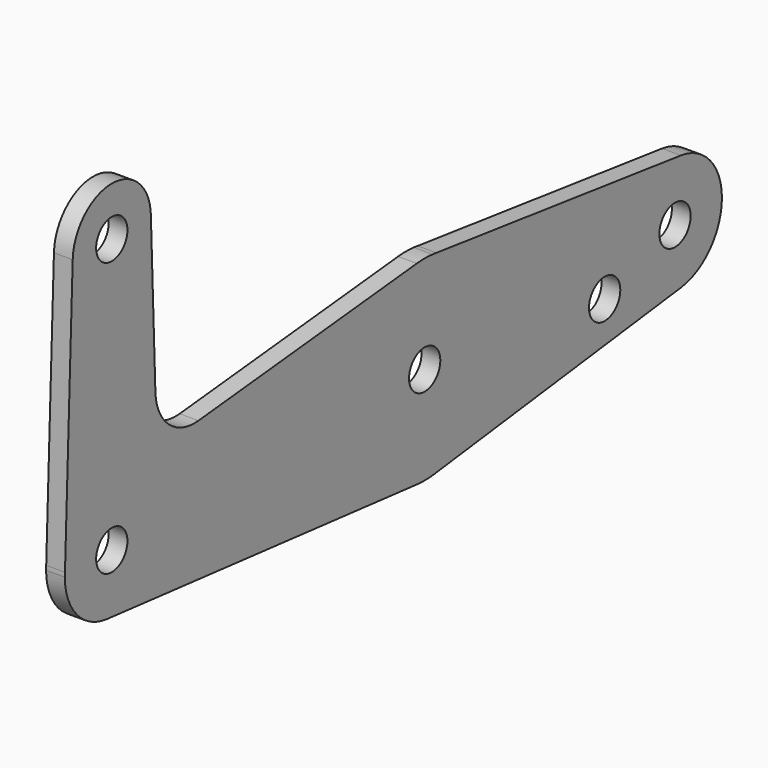
from build123d import *

# Parameters (mm, degrees)
F0_R     = 3.175
F1_DEPTH = 3.048


with BuildPart() as f1:
    # F0 (on Right) → F1 (new body)
    with BuildSketch(Plane.YZ):
        with BuildLine():
            ThreePointArc((-0.9525, -9.477255), (6.389564, -7.063929), (9.525, 0))
            ThreePointArc((9.525, 0), (0.338886, 9.51897), (-9.500886, 0.677344))
            Line((-9.500886, 0.677344), (-9.525, 0))
            ThreePointArc((-9.525, 0), (-7.063929, -6.389564), (-0.9525, -9.477255))
        make_face()
        Circle(F0_R, mode=Mode.SUBTRACT)
        with BuildLine():
            ThreePointArc((-9.500886, 0.677344), (0.338886, 9.51897), (9.525, 0))
            ThreePointArc((9.525, 0), (6.389564, -7.063929), (-0.9525, -9.477255))
            Line((-0.9525, -9.477255), (61.9125, -15.795426))
            ThreePointArc((61.9125, -15.795426), (47.625, 0), (61.9125, 15.795426))
            Line((61.9125, 15.795426), (17.59125, 11.340972))
            ThreePointArc((17.59125, 11.340972), (11.569571, 13.260686), (8.851134, 18.966474))
            Line((8.851134, 18.966474), (7.9375, 44.45))
            ThreePointArc((7.9375, 44.45), (-0.141225, 36.513756), (-7.932475, 44.732405))
            Line((-7.932475, 44.732405), (-9.500886, 0.677344))
        make_face()
        with BuildLine():
            Line((-9.525, 0), (-9.500886, 0.677344))
            ThreePointArc((-9.500886, 0.677344), (-9.51897, 0.338886), (-9.525, 0))
        make_face()
        with BuildLine():
            ThreePointArc((7.9375, 44.45), (0.141225, 52.386244), (-7.932475, 44.732405))
            ThreePointArc((-7.932475, 44.732405), (-0.141225, 36.513756), (7.9375, 44.45))
        make_face()
        with Locations((0, 44.45)):
            Circle(F0_R, mode=Mode.SUBTRACT)
        with BuildLine():
            ThreePointArc((61.9125, 15.795426), (47.625, 0), (61.9125, -15.795426))
            ThreePointArc((61.9125, -15.795426), (63.5, -15.875), (65.0875, -15.795426))
            Line((65.0875, -15.795426), (65.876889, -15.696051))
            ThreePointArc((65.876889, -15.696051), (75.536377, -10.350906), (79.375, 0))
            ThreePointArc((79.375, 0), (75.536377, 10.350906), (65.876889, 15.696051))
            Line((65.876889, 15.696051), (65.0875, 15.795426))
            ThreePointArc((65.0875, 15.795426), (63.5, 15.875), (61.9125, 15.795426))
        make_face()
        with Locations((63.5, 0)):
            Circle(F0_R, mode=Mode.SUBTRACT)
        with BuildLine():
            Line((65.876889, -15.696051), (65.0875, -15.795426))
            ThreePointArc((65.0875, -15.795426), (65.482817, -15.750684), (65.876889, -15.696051))
        make_face()
        with BuildLine():
            ThreePointArc((65.876889, 15.696051), (65.482817, 15.750684), (65.0875, 15.795426))
            Line((65.0875, 15.795426), (65.876889, 15.696051))
        make_face()
        with BuildLine():
            ThreePointArc((79.375, 0), (75.536377, -10.350906), (65.876889, -15.696051))
            Line((65.876889, -15.696051), (115.48969, -9.450411))
            ThreePointArc((115.48969, -9.450411), (104.775, 0), (115.48969, 9.450411))
            Line((115.48969, 9.450411), (65.876889, 15.696051))
            ThreePointArc((65.876889, 15.696051), (75.536377, 10.350906), (79.375, 0))
        make_face()
        with Locations((100.0252, -4.7625)):
            Circle(F0_R, mode=Mode.SUBTRACT)
        with BuildLine():
            ThreePointArc((115.48969, 9.450411), (104.775, 0), (115.48969, -9.450411))
            ThreePointArc((115.48969, -9.450411), (121.443438, -6.300549), (123.825, 0))
            ThreePointArc((123.825, 0), (121.443438, 6.300549), (115.48969, 9.450411))
        make_face()
        with Locations((114.3, 0)):
            Circle(F0_R, mode=Mode.SUBTRACT)
    extrude(amount=F1_DEPTH)


solid = f1.part
